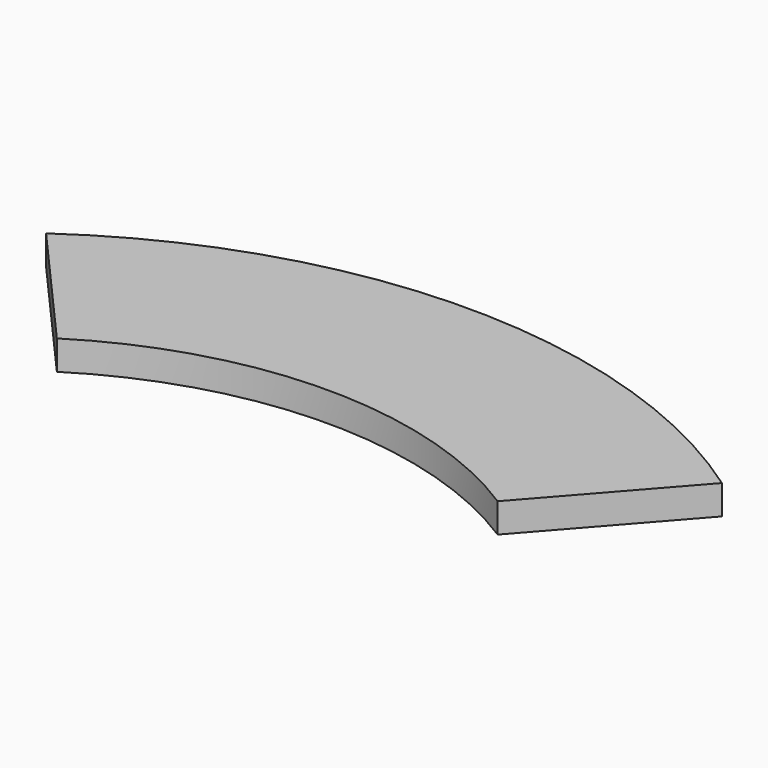
from build123d import *

# Parameters (mm, degrees)
PAD_DEPTH = 1


with BuildPart() as part:
    # Sketch → Pad (new body)
    with BuildSketch(Plane.XY):
        with BuildLine():
            ThreePointArc((11.5, 16.363068), (0, 20), (-11.5, 16.363068))
            Line((-11.5, 16.363068), (-7.5, 11.82159))
            ThreePointArc((7.5, 11.82159), (0, 14), (-7.5, 11.82159))
            Line((7.5, 11.82159), (11.5, 16.363068))
        make_face()
    extrude(amount=PAD_DEPTH)


solid = part.part
